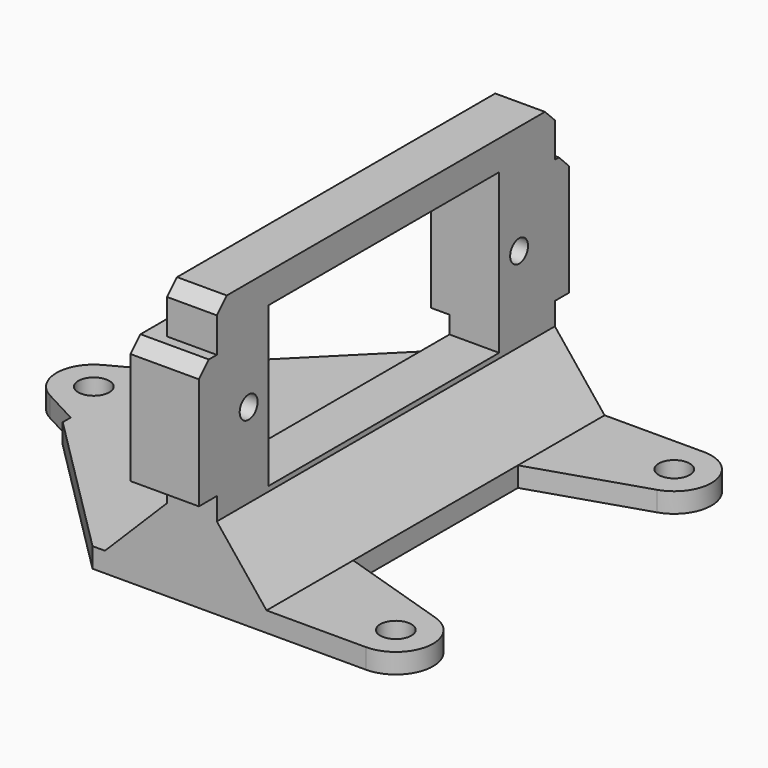
from build123d import *

# Parameters (mm, degrees)
PAD_DEPTH       = 34
SKETCH_R        = 0.9
POCKET_DEPTH    = 22.001
SKETCH003_W     = 12.8
SKETCH003_H     = 23.2
POCKET001_DEPTH = 22.001
SKETCH005_R     = 1.25
PAD001_DEPTH    = 1.6
SKETCH006_R     = 1.25
PAD002_DEPTH    = 1.6
SKETCH007_W     = 10
SKETCH007_H     = 7
SKETCH007_R     = 0.9
PAD003_DEPTH    = 5.5
CHAMFER_SIZE    = 12
CHAMFER001_SIZE = 1
CHAMFER002_SIZE = 1


with BuildPart() as part:
    # Sketch001 → Pad (new body)
    with BuildSketch(Plane.XZ):
        Polygon((-22, 1.6), (-9, 1.6), (-4, 6.6), (-4, 22.2), (0, 22.2), (0, 6.6), (4, 1.6), (4, 0), (-3.601763, 0), (-22, 0), align=None)
    extrude(amount=PAD_DEPTH)

    # Sketch → Pocket (cut, through all)
    with BuildSketch(Plane(origin=(0, 0, 0), x_dir=(0, 0, 1), z_dir=(1, 0, 0))):
        with Locations((13.4, 30.8)):
            Circle(SKETCH_R)
        with Locations((13.4, 3.6)):
            Circle(SKETCH_R)
    extrude(amount=-POCKET_DEPTH, mode=Mode.SUBTRACT)

    # Sketch003 (on DatumPlane) → Pocket001 (cut, through all)
    with BuildSketch(Plane(origin=(0, 0, 0), x_dir=(0, 0, 1), z_dir=(1, 0, 0))):
        with Locations((13.4, 17.2)):
            Rectangle(SKETCH003_W, SKETCH003_H)
    extrude(amount=-POCKET001_DEPTH, mode=Mode.SUBTRACT)

    # Sketch005 → Pad001 (join)
    with BuildSketch(Plane.XY):
        with BuildLine():
            ThreePointArc((-24.911765, -14.352941), (-26.5, -17), (-24.911765, -19.647059))
            Line((-20.5, -22), (-24.911765, -19.647059))
            Line((-20.5, -12), (-20.5, -22))
            Line((-20.5, -12), (-24.911765, -14.352941))
        make_face()
        with Locations((-23.5, -17)):
            Circle(SKETCH005_R, mode=Mode.SUBTRACT)
    extrude(amount=PAD001_DEPTH)

    # Sketch006 → Pad002 (join)
    with BuildSketch(Plane.XY):
        with BuildLine():
            ThreePointArc((12, -34), (14.963938, -31.463756), (12.916362, -28.143379))
            Line((0, -24), (12.916362, -28.143379))
            Line((0, -34), (0, -24))
            Line((0, -34), (12, -34))
        make_face()
        with Locations((12, -31)):
            Circle(SKETCH006_R, mode=Mode.SUBTRACT)
        with BuildLine():
            ThreePointArc((12.916362, -5.856621), (14.96394, -2.536256), (12.000023, 0))
            Line((0, 0), (12.000023, 0))
            Line((0, 0), (0, -10))
            Line((0, -10), (12.916362, -5.856621))
        make_face()
        with Locations((12, -3)):
            Circle(SKETCH006_R, mode=Mode.SUBTRACT)
    extrude(amount=PAD002_DEPTH)

    # Sketch007 (on Face3 of Pad002) → Pad003 (join)
    with BuildSketch(Plane(origin=(0, 0, 0), x_dir=(0, 0, 1), z_dir=(1, 0, 0))):
        with Locations((13.4, 32.3)):
            Rectangle(SKETCH007_W, SKETCH007_H)
        with Locations((13.4, 30.8)):
            Circle(SKETCH007_R, mode=Mode.SUBTRACT)
        with Locations((13.4, 2.1)):
            Rectangle(SKETCH007_W, SKETCH007_H)
        with Locations((13.4, 3.6)):
            Circle(SKETCH007_R, mode=Mode.SUBTRACT)
    extrude(amount=-PAD003_DEPTH)

    # Chamfer
    chamfer_edges = [part.edges().sort_by_distance(p)[0] for p in [
        (-22, 0, 0.8),
        (-22, -34, 0.8),
    ]]
    chamfer(chamfer_edges, length=CHAMFER_SIZE)

    # Chamfer001
    chamfer001_edges = [part.edges().sort_by_distance(p)[0] for p in [
        (-2, 0, 22.2),
        (-2, -34, 22.2),
    ]]
    chamfer(chamfer001_edges, length=CHAMFER001_SIZE)

    # Chamfer002
    chamfer002_edges = [part.edges().sort_by_distance(p)[0] for p in [
        (-2.75, 1.4, 18.4),
        (-2.75, -35.8, 18.4),
    ]]
    chamfer(chamfer002_edges, length=CHAMFER002_SIZE)


solid = part.part
